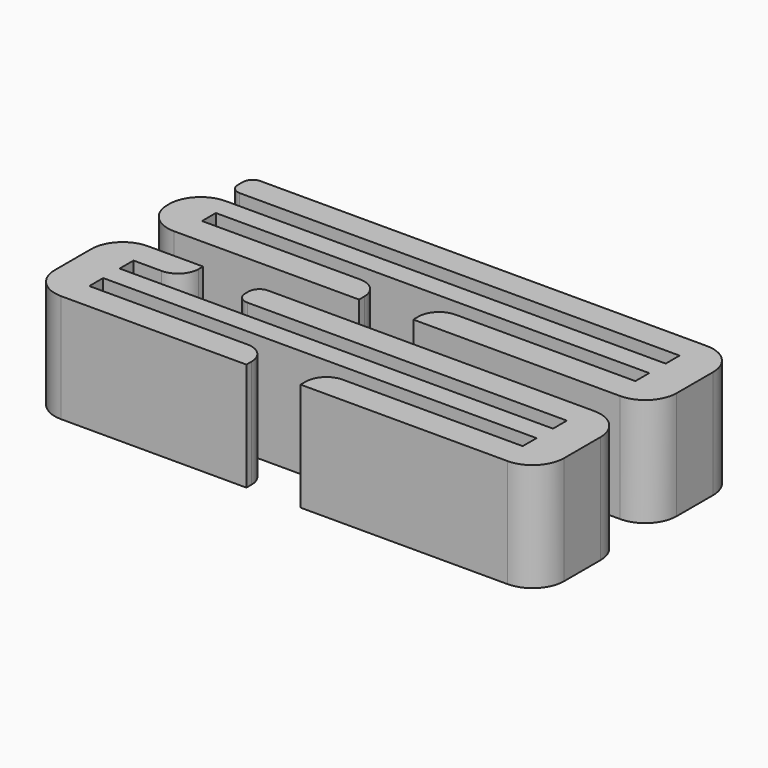
from build123d import *

# Parameters (mm, degrees)
BOX003_W     = 5
BOX003_H     = 2.5
BOX003_DEPTH = 10
BOX_W        = 40
BOX_H        = 1.6
BOX_DEPTH    = 10
BOX002_W     = 40
BOX002_H     = 1.6
BOX002_DEPTH = 10
BOX004_W     = 5
BOX004_H     = 4
BOX004_DEPTH = 10
BOX001_W     = 47
BOX001_H     = 10
BOX001_DEPTH = 10
FILLET_R     = 2.9
FILLET001_R  = 1
FILLET002_R  = 1.9
FILLET003_R  = 1.9
BOX009_W     = 2
BOX009_H     = 4
BOX009_DEPTH = 10
BOX008_W     = 5
BOX008_H     = 2.5
BOX008_DEPTH = 10
BOX007_W     = 40
BOX007_H     = 1.6
BOX007_DEPTH = 10
BOX006_W     = 43
BOX006_H     = 1.6
BOX006_DEPTH = 10
BOX005_W     = 47
BOX005_H     = 10
BOX005_DEPTH = 10
FILLET004_R  = 2.9
FILLET005_R  = 0.9
FILLET006_R  = 1.9


with BuildPart() as cubo004:
    # Box003 → Box003 (new body)
    with BuildSketch(Plane(origin=(18, 0, 0), x_dir=(1, 0, 0), z_dir=(0, 0, 1))):
        with Locations((2.5, 1.25)):
            Rectangle(BOX003_W, BOX003_H)
    extrude(amount=BOX003_DEPTH)


with BuildPart() as cubo003:
    # Box → Box (new body)
    with BuildSketch(Plane(origin=(1.5, 2.5, 0), x_dir=(1, 0, 0), z_dir=(0, 0, 1))):
        with Locations((20, 0.8)):
            Rectangle(BOX_W, BOX_H)
    extrude(amount=BOX_DEPTH)


with BuildPart() as cubo002:
    # Box002 → Box002 (new body)
    with BuildSketch(Plane(origin=(1.5, 6, 0), x_dir=(1, 0, 0), z_dir=(0, 0, 1))):
        with Locations((20, 0.8)):
            Rectangle(BOX002_W, BOX002_H)
    extrude(amount=BOX002_DEPTH)


with BuildPart() as cubo005:
    # Box004 → Box004 (new body)
    with BuildSketch(Plane(origin=(6, 6, 0), x_dir=(1, 0, 0), z_dir=(0, 0, 1))):
        with Locations((2.5, 2)):
            Rectangle(BOX004_W, BOX004_H)
    extrude(amount=BOX004_DEPTH)


with BuildPart() as obj1:
    # Box001 → Box001 (new body)
    with BuildSketch(Plane(origin=(-2, 0, 0), x_dir=(1, 0, 0), z_dir=(0, 0, 1))):
        with Locations((23.5, 5)):
            Rectangle(BOX001_W, BOX001_H)
    extrude(amount=BOX001_DEPTH)

    # Cut: cut Cubo005
    add(cubo005.part, mode=Mode.SUBTRACT)

    # Cut001: cut Cubo002
    add(cubo002.part, mode=Mode.SUBTRACT)

    # Cut002: cut Cubo003
    add(cubo003.part, mode=Mode.SUBTRACT)

    # Cut003: cut Cubo004
    add(cubo004.part, mode=Mode.SUBTRACT)

    # Fillet
    fillet_edges = [obj1.edges().sort_by_distance(p)[0] for p in [
        (-2, 0, 5),
        (-2, 10, 5),
        (45, 10, 5),
        (45, 0, 5),
    ]]
    fillet(fillet_edges, radius=FILLET_R)

    # Fillet001
    fillet001_edges = [obj1.edges().sort_by_distance(p)[0] for p in [
        (11, 7.6, 5),
        (11, 10, 5),
    ]]
    fillet(fillet001_edges, radius=FILLET001_R)

    # Fillet002
    fillet002_edges = [obj1.edges().sort_by_distance(p)[0] for p in [
        (6, 7.6, 5),
    ]]
    fillet(fillet002_edges, radius=FILLET002_R)

    # Fillet003
    fillet003_edges = [obj1.edges().sort_by_distance(p)[0] for p in [
        (18, 2.5, 5),
        (23, 2.5, 5),
    ]]
    fillet(fillet003_edges, radius=FILLET003_R)


with BuildPart() as cubo009:
    # Box009 → Box009 (new body)
    with BuildSketch(Plane(origin=(-2, 19, 0), x_dir=(1, 0, 0), z_dir=(0, 0, 1))):
        with Locations((1, 2)):
            Rectangle(BOX009_W, BOX009_H)
    extrude(amount=BOX009_DEPTH)


with BuildPart() as cubo008:
    # Box008 → Box008 (new body)
    with BuildSketch(Plane(origin=(18, 13, 0), x_dir=(1, 0, 0), z_dir=(0, 0, 1))):
        with Locations((2.5, 1.25)):
            Rectangle(BOX008_W, BOX008_H)
    extrude(amount=BOX008_DEPTH)


with BuildPart() as cubo007:
    # Box007 → Box007 (new body)
    with BuildSketch(Plane(origin=(1.5, 15.5, 0), x_dir=(1, 0, 0), z_dir=(0, 0, 1))):
        with Locations((20, 0.8)):
            Rectangle(BOX007_W, BOX007_H)
    extrude(amount=BOX007_DEPTH)


with BuildPart() as cubo006:
    # Box006 → Box006 (new body)
    with BuildSketch(Plane(origin=(-1.5, 19, 0), x_dir=(1, 0, 0), z_dir=(0, 0, 1))):
        with Locations((21.5, 0.8)):
            Rectangle(BOX006_W, BOX006_H)
    extrude(amount=BOX006_DEPTH)


with BuildPart() as obj2:
    # Box005 → Box005 (new body)
    with BuildSketch(Plane(origin=(-2, 13, 0), x_dir=(1, 0, 0), z_dir=(0, 0, 1))):
        with Locations((23.5, 5)):
            Rectangle(BOX005_W, BOX005_H)
    extrude(amount=BOX005_DEPTH)

    # Cut004: cut Cubo006
    add(cubo006.part, mode=Mode.SUBTRACT)

    # Cut005: cut Cubo007
    add(cubo007.part, mode=Mode.SUBTRACT)

    # Cut006: cut Cubo008
    add(cubo008.part, mode=Mode.SUBTRACT)

    # Cut007: cut Cubo009
    add(cubo009.part, mode=Mode.SUBTRACT)

    # Fillet004
    fillet004_edges = [obj2.edges().sort_by_distance(p)[0] for p in [
        (-2, 19, 5),
        (-2, 13, 5),
        (45, 23, 5),
        (45, 13, 5),
    ]]
    fillet(fillet004_edges, radius=FILLET004_R)

    # Fillet005
    fillet005_edges = [obj2.edges().sort_by_distance(p)[0] for p in [
        (0, 23, 5),
        (0, 20.6, 5),
    ]]
    fillet(fillet005_edges, radius=FILLET005_R)

    # Fillet006
    fillet006_edges = [obj2.edges().sort_by_distance(p)[0] for p in [
        (23, 15.5, 5),
        (18, 15.5, 5),
    ]]
    fillet(fillet006_edges, radius=FILLET006_R)


solid = Compound([obj1.part, obj2.part])
